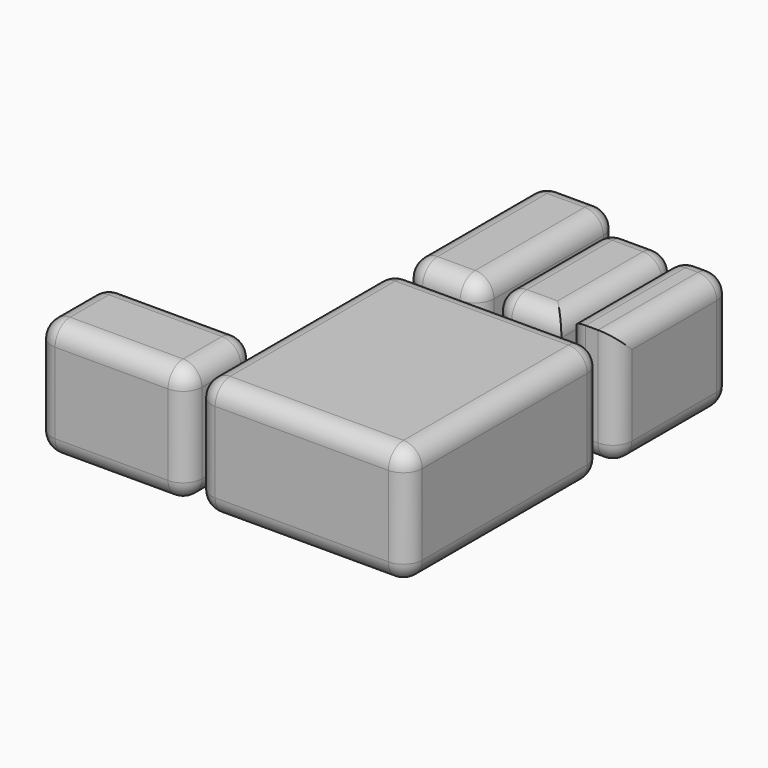
from build123d import *

# Parameters (mm, degrees)
F0_W     = 32.479838
F0_H     = 37.560486
F0_W_2   = 11.573766
F0_H_2   = 26.854839
F0_W_3   = 10.524194
F0_H_3   = 22.227824
F0_W_4   = 7.711694
F0_H_4   = 22.137098
F0_W_5   = 23.19673
F0_H_5   = 13.269141
F1_DEPTH = 18.2
F2_R     = 2.897056


with BuildPart() as f1:
    # F0 (on Top) → F1 (new body)
    with BuildSketch(Plane.XY):
        Rectangle(F0_W, F0_H)
        with Locations((-10.453036, 34.597018)):
            Rectangle(F0_W_2, F0_H_2)
        with Locations((2.773363, 32.283511)):
            Rectangle(F0_W_3, F0_H_3)
        with Locations((12.707839, 32.238148)):
            Rectangle(F0_W_4, F0_H_4)
        with Locations((-29.304495, -12.145672)):
            Rectangle(F0_W_5, F0_H_5)
    extrude(amount=F1_DEPTH)

    # F2
    f2_edges = [f1.edges().sort_by_distance(p)[0] for p in [
        (-10.453036, 48.024438, 18.2),
        (-16.239919, 48.024438, 9.1),
        (-4.666153, 48.024438, 9.1),
        (-10.453036, 48.024438, 0),
        (16.563686, 43.306697, 9.1),
        (8.851992, 43.306697, 9.1),
        (12.707839, 43.306697, 0),
        (12.707839, 43.306697, 18.2),
        (-40.90286, -5.511102, 9.1),
        (-40.90286, -18.780243, 9.1),
        (-40.90286, -12.145672, 0),
        (-40.90286, -12.145672, 18.2),
        (-17.70613, -5.511102, 9.1),
        (-29.304495, -5.511102, 0),
        (-29.304495, -5.511102, 18.2),
        (-29.304495, -18.780243, 18.2),
        (-17.70613, -12.145672, 18.2),
        (-17.70613, -18.780243, 9.1),
        (-29.304495, -18.780243, 0),
        (-17.70613, -12.145672, 0),
        (-16.239919, 21.169599, 9.1),
        (-16.239919, 34.597019, 0),
        (-16.239919, 34.597019, 18.2),
        (-10.453036, 21.169599, 18.2),
        (-4.666153, 34.597019, 18.2),
        (-4.666153, 21.169599, 9.1),
        (-4.666153, 34.597019, 0),
        (16.563686, 21.169599, 9.1),
        (16.563686, 32.238148, 0),
        (16.563686, 32.238148, 18.2),
        (8.851992, 32.238148, 0),
        (12.707839, 21.169599, 0),
        (8.03546, 43.397423, 9.1),
        (-2.488734, 43.397423, 9.1),
        (2.773363, 43.397423, 0),
        (2.773363, 43.397423, 18.2),
        (-2.488734, 32.283511, 0),
        (2.773363, 21.169599, 0),
        (8.03546, 32.283511, 0),
        (-2.488734, 21.169599, 9.1),
        (-2.488734, 32.283511, 18.2),
        (2.773363, 21.169599, 18.2),
        (8.03546, 32.283511, 18.2),
        (8.851992, 21.169599, 9.1),
        (8.851992, 32.238148, 18.2),
        (0, -18.780243, 18.2),
        (16.239919, 0, 18.2),
        (0, 18.780243, 18.2),
        (-16.239919, 0, 18.2),
        (-16.239919, 18.780243, 9.1),
        (-16.239919, -18.780243, 9.1),
        (-16.239919, 0, 0),
        (16.239919, -18.780243, 9.1),
        (16.239919, 18.780243, 9.1),
        (16.239919, 0, 0),
        (0, -18.780243, 0),
        (0, 18.780243, 0),
    ]]
    fillet(f2_edges, radius=F2_R)


solid = f1.part
